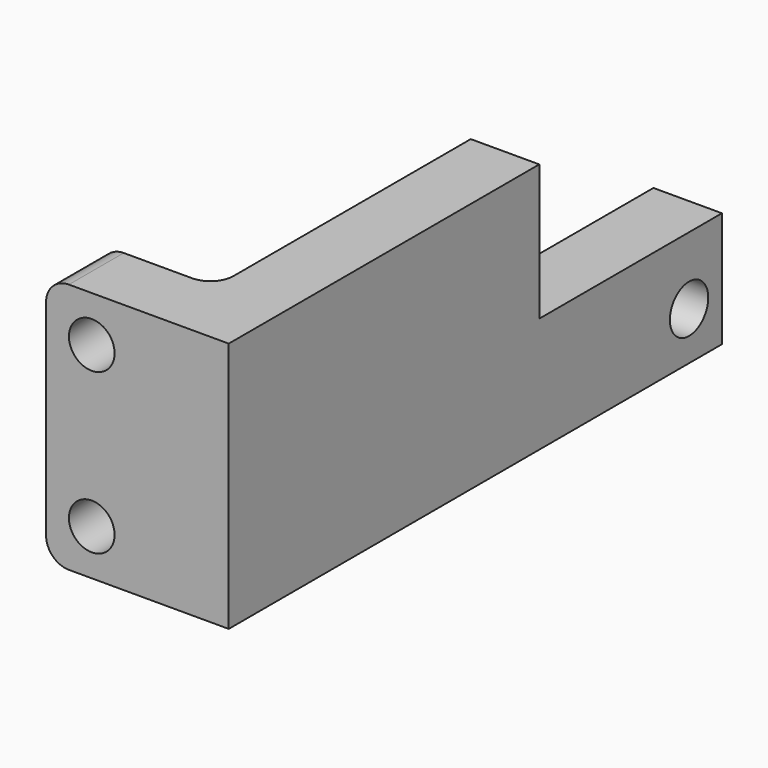
from build123d import *

# Parameters (mm, degrees)
PAD_DEPTH       = 11
POCKET_DEPTH    = 5
SKETCH003_R     = 1.05
POCKET001_DEPTH = 5
FILLET_R        = 1
FILLET001_R     = 1
FILLET002_R     = 1
SKETCH004_R     = 1
POCKET002_DEPTH = 5


with BuildPart() as part:
    # Sketch → Pad (new body)
    with BuildSketch(Plane.XY):
        Polygon((0, 0), (-5, 0), (-5, -3), (3, -3), (3, 24), (0, 24), align=None)
    extrude(amount=PAD_DEPTH)

    # Sketch002 (on Face6 of Pad) → Pocket (cut)
    with BuildSketch(Plane(origin=(0, 0, 0), x_dir=(0, -1, 0), z_dir=(-1, 0, 0))):
        Polygon((-24, 10.051275), (-24, 5.051275), (-14, 5.051275), (-14, 13.051275), (-24, 13.051275), align=None)
    extrude(amount=-POCKET_DEPTH, mode=Mode.SUBTRACT)

    # Sketch003 (on Face2 of Pocket) → Pocket001 (cut)
    with BuildSketch(Plane(origin=(0, 0, 0), x_dir=(0, -1, 0), z_dir=(-1, 0, 0))):
        with Locations((-22.2, 2.1)):
            Circle(SKETCH003_R)
    extrude(amount=-POCKET001_DEPTH, mode=Mode.SUBTRACT)

    # Fillet
    fillet_edges = [part.edges().sort_by_distance(p)[0] for p in [
        (0, 0, 5.5),
    ]]
    fillet(fillet_edges, radius=FILLET_R)

    # Fillet001
    fillet001_edges = [part.edges().sort_by_distance(p)[0] for p in [
        (-5, -1.5, 0),
    ]]
    fillet(fillet001_edges, radius=FILLET001_R)

    # Fillet002
    fillet002_edges = [part.edges().sort_by_distance(p)[0] for p in [
        (-5, -1.5, 11),
    ]]
    fillet(fillet002_edges, radius=FILLET002_R)

    # Sketch004 (on Face1 of Fillet002) → Pocket002 (cut)
    with BuildSketch(Plane(origin=(0, 0, 0), x_dir=(-1, 0, 0), z_dir=(0, 1, 0))):
        with Locations((3, 9)):
            Circle(SKETCH004_R)
        with Locations((3, 2)):
            Circle(SKETCH004_R)
    extrude(amount=-POCKET002_DEPTH, mode=Mode.SUBTRACT)


solid = part.part
